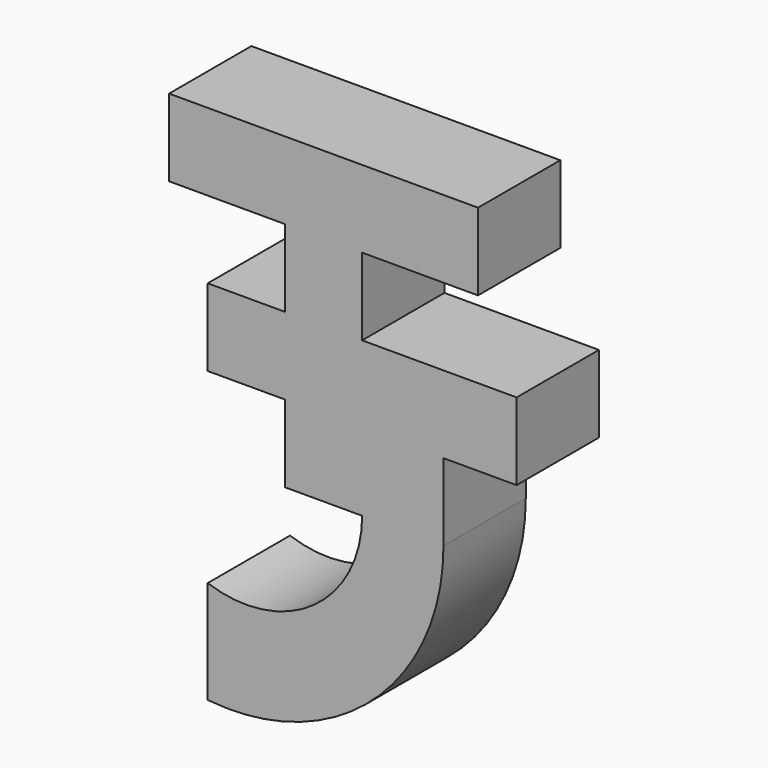
from build123d import *

# Parameters (mm, degrees)
F1_DEPTH = 12.7


with BuildPart() as f1:
    # F0 (on Front) → F1 (new body)
    with BuildSketch(Plane.XZ):
        with BuildLine():
            Line((0, 9.533754), (0, 0))
            Line((0, 0), (9.533754, 0))
            ThreePointArc((9.533754, 0), (3.49257, -11.684282), (-9.533754, -13.509993))
            Line((-9.533754, -13.509993), (-9.533754, -26.209993))
            ThreePointArc((-9.533754, -26.209993), (10.85412, -19.584278), (19.573154, 0))
            Line((19.573154, 0), (19.573154, 9.533754))
            Line((19.573154, 9.533754), (28.601263, 9.533754))
            Line((28.601263, 9.533754), (28.601263, 19.067509))
            Line((28.601263, 19.067509), (9.533754, 19.067509))
            Line((9.533754, 19.067509), (9.533754, 28.601263))
            Line((9.533754, 28.601263), (23.834386, 28.601263))
            Line((23.834386, 28.601263), (23.834386, 38.135017))
            Line((23.834386, 38.135017), (9.533754, 38.135017))
            Line((9.533754, 38.135017), (0, 38.135017))
            Line((0, 38.135017), (-14.300632, 38.135017))
            Line((-14.300632, 38.135017), (-14.300632, 28.601263))
            Line((-14.300632, 28.601263), (0, 28.601263))
            Line((0, 28.601263), (0, 19.067509))
            Line((0, 19.067509), (-9.533754, 19.067509))
            Line((-9.533754, 19.067509), (-9.533754, 9.533754))
            Line((-9.533754, 9.533754), (0, 9.533754))
        make_face()
    extrude(amount=F1_DEPTH)


solid = f1.part
